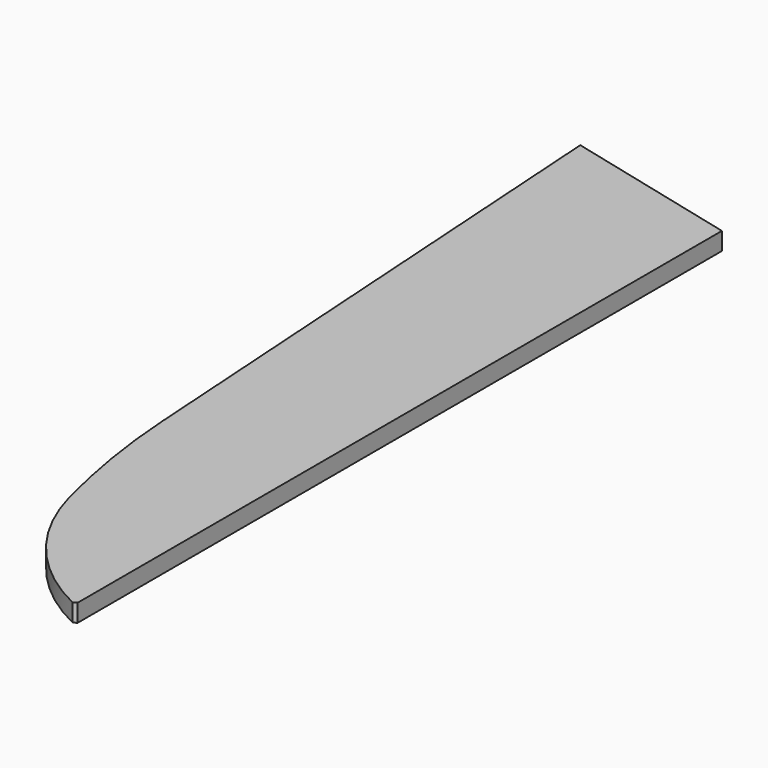
from build123d import *

# Parameters (mm, degrees)
PAD_DEPTH    = 2.4
POCKET_DEPTH = 1.2
CHAMFER_SIZE = 1


with BuildPart() as part:
    # Sketch001 → Pad (new body, symmetric)
    with BuildSketch(Plane.XY):
        with BuildLine():
            ThreePointArc((-35.969784, -57.54415), (-33.691358, -77.55321), (-29.473826, -97.244988))
            ThreePointArc((-29.473826, -97.244988), (-17.916413, -119.460908), (2, -134.64173))
            Line((2, -134.64173), (2, 84.534861))
            Line((-45.930419, 96.485256), (2, 84.534861))
            Line((-35.969784, -57.54415), (-45.930419, 96.485256))
        make_face()
    extrude(amount=PAD_DEPTH, both=True)

    # Sketch → Pocket (cut, symmetric)
    with BuildSketch(Plane.XY):
        with BuildLine():
            Line((0, 85.033517), (0, -130.966483))
            ThreePointArc((-27.154362, -96.628473), (-17.140793, -116.615568), (0, -130.966483))
            ThreePointArc((-33.574786, -57.389272), (-31.322854, -77.165669), (-27.154362, -96.628473))
            Line((-33.574786, -57.389272), (-43.485993, 95.875793))
            Line((-43.485993, 95.875793), (0, 85.033517))
        make_face()
    extrude(amount=POCKET_DEPTH, both=True, mode=Mode.SUBTRACT)

    # Chamfer
    chamfer_edges = [part.edges().sort_by_distance(p)[0] for p in [
        (2, -134.64173, 0),
    ]]
    chamfer(chamfer_edges, length=CHAMFER_SIZE)


solid = part.part
